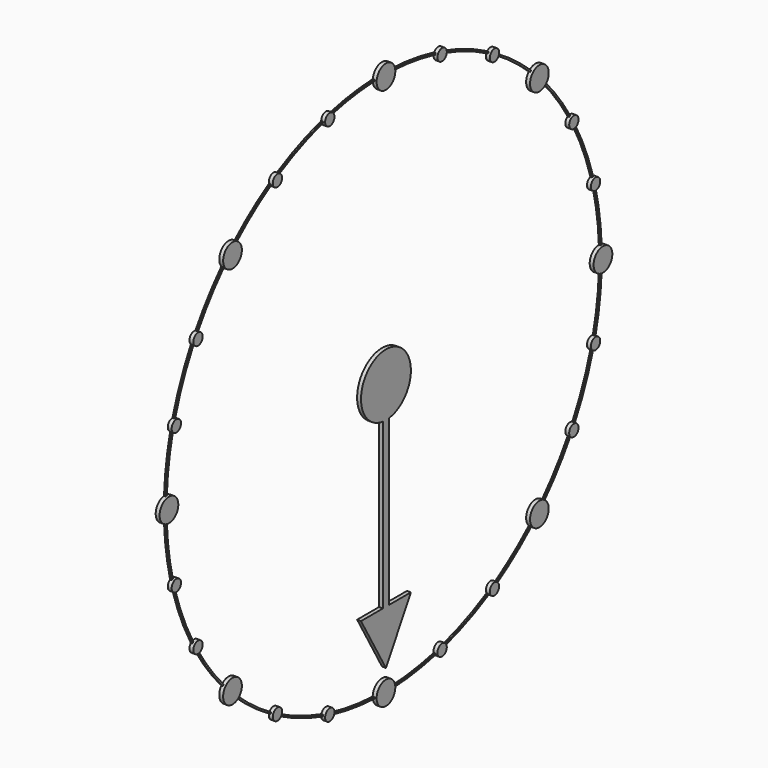
from build123d import *

# Parameters (mm, degrees)
F1_R      = 350
F1_R_2    = 348
F2_DEPTH  = 2
F3_R      = 7.5
F4_DEPTH  = 5
F5_COUNT  = 24
F6_R      = 15
F7_DEPTH  = 5
F8_COUNT  = 8
F10_DEPTH = 5


with BuildPart() as f2:
    # F1 (on Right) → F2 (new body)
    with BuildSketch(Plane.YZ):
        Circle(F1_R)
        Circle(F1_R_2, mode=Mode.SUBTRACT)
    extrude(amount=F2_DEPTH)

    # F3 (on Right) → F4 (join)
    with BuildSketch(Plane.YZ):
        with Locations((0, -348)):
            Circle(F3_R)
    extrude(amount=F4_DEPTH)

    # F5: F2 ×24 about axis
    f5_axis = Axis((157.9636344686, 0, 0), (1, 0, 0))


with BuildPart() as f2_1:
    add(f2.part)
    for i in range(1, F5_COUNT):
        add(f2.part.rotate(f5_axis, i * 360 / F5_COUNT))

    # F6 (on Right) → F7 (join)
    with BuildSketch(Plane.YZ):
        with Locations((0, -348)):
            Circle(F6_R)
    extrude(amount=F7_DEPTH)

    # F8: F2 ×8 about axis
    f8_axis = Axis((157.9636344686, 0, 0), (1, 0, 0))


with BuildPart() as f2_2:
    add(f2_1.part)
    for i in range(1, F8_COUNT):
        add(f2_1.part.rotate(f8_axis, i * 360 / F8_COUNT))


with BuildPart() as f10:
    # F9 (on Right) → F10 (new body)
    with BuildSketch(Plane.YZ):
        with BuildLine():
            Line((5, -250.7179676972), (5, -39.686269666))
            ThreePointArc((5, -39.686269666), (0, 40), (-5, -39.686269666))
            Line((-5, -39.686269666), (-5, -250.7179676972))
            Line((-5, -250.7179676972), (-40, -250.7179676972))
            Line((-40, -250.7179676972), (0, -320))
            Line((0, -320), (40, -250.7179676972))
            Line((40, -250.7179676972), (5, -250.7179676972))
        make_face()
    extrude(amount=F10_DEPTH)


solid = Compound([f2_2.part, f10.part])
